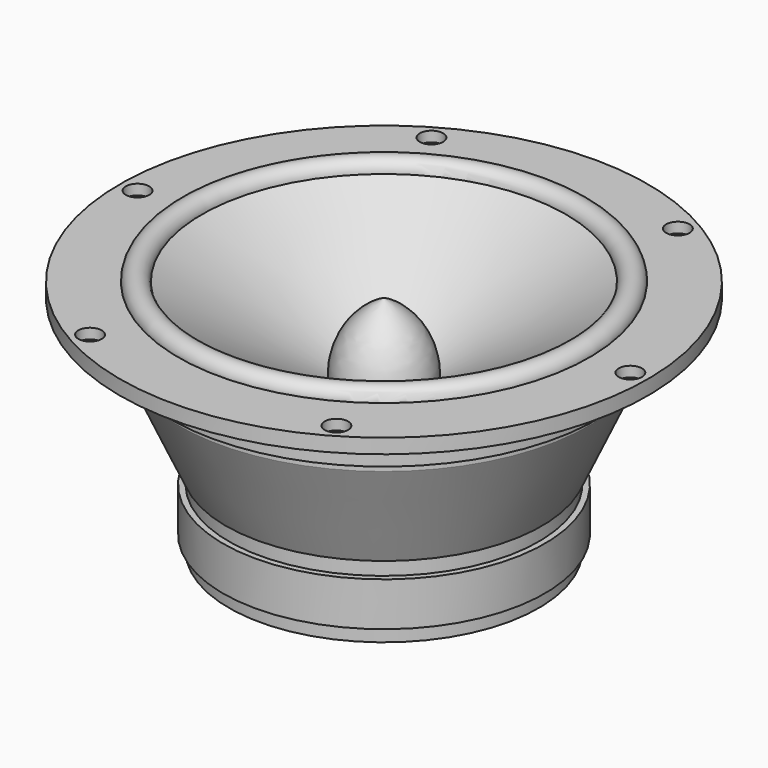
from build123d import *

# Parameters (mm, degrees)
F3_D           = 5.3
F3_CBORE_D     = 8
F3_CBORE_DEPTH = 3.5


with BuildPart() as f1:
    # F0 (on Right) → F1 (revolve)
    with BuildSketch(Plane.YZ):
        with BuildLine():
            Line((62.25, 5), (15, -22.912878))
            ThreePointArc((15, -22.912878), (10.916501, -9.219815), (0, 0))
            Line((0, 0), (0, -56))
            Line((0, -56), (7.5, -56))
            Line((7.5, -56), (7.5, -76))
            Line((7.5, -76), (53, -76))
            Line((53, -76), (53, -71))
            Line((53, -71), (55, -71))
            Line((55, -71), (55, -56))
            Line((55, -56), (53, -56))
            Line((53, -56), (53, -51))
            Line((53, -51), (54, -51))
            Line((54, -51), (70, -15.7))
            Line((70, -15.7), (70, -12.7))
            Line((70, -12.7), (73, -12.7))
            Line((73, -12.7), (73, 0))
            Line((73, 0), (90.25, 0))
            Line((90.25, 0), (90.25, 5))
            Line((90.25, 5), (70.25, 5))
            ThreePointArc((70.25, 5), (66.25, 9), (62.25, 5))
        make_face()
    revolve(axis=Axis((0, 0, 17.955994), (0, 0, 1)))

    # F3 (through all)
    with Locations(Plane.XY.offset(5)):
        with Locations((42.125, 72.96264), (84.25, 0), (42.125, -72.96264), (-42.125, -72.96264), (-84.25, 0), (-42.125, 72.96264)):
            CounterBoreHole(F3_D / 2, F3_CBORE_D / 2, F3_CBORE_DEPTH)


solid = f1.part
